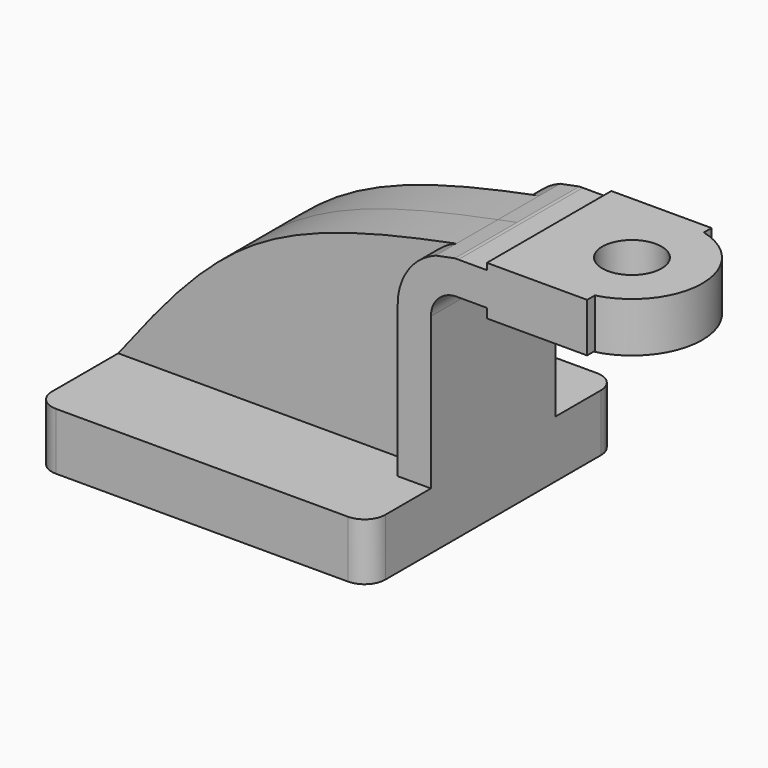
from build123d import *

# Parameters (mm, degrees)
F1_DEPTH = 38.1
F2_DEPTH = 19.05
F3_DEPTH = 12.7
F5_DEPTH = 12.192
F6_R     = 5.08
F7_R     = 7.266587331
F8_DEPTH = 67.1105764264


with BuildPart() as f1:
    # F0 (on Front) → F1 (new body, symmetric)
    with BuildSketch(Plane.XZ):
        Polygon((-40.8368967474, -6.9965338334), (40.8368967474, -6.9965338334), (40.8368967474, 6.9965338334), (32.7088981867, 6.9965338334), (-40.8368967474, 6.9965338334), align=None)
    extrude(amount=F1_DEPTH, both=True)

    # F0 (on Front) → F2 (join, symmetric)
    with BuildSketch(Plane.XZ):
        with BuildLine():
            Line((32.7088981867, 6.9965338334), (40.8368967474, 6.9965338334))
            Line((40.8368967474, 6.9965338334), (40.8368967474, 44.1209748387))
            ThreePointArc((40.8368967474, 44.1209748387), (42.7787364938, 48.6655280984), (47.405064106, 50.403572619))
            Line((47.405064106, 50.403572619), (54.5443966985, 50.403572619))
            Line((54.5443966985, 50.403572619), (54.5443966985, 58.5315711796))
            Line((54.5443966985, 58.5315711796), (47.5487387444, 58.5315711796))
            ThreePointArc((47.5487387444, 58.5315711796), (47.1257024985, 58.5377791506), (46.7026662526, 58.5315711796))
            add(Edge.make_bspline(
                [(42.0115930359, 57.6002229992), (43.5737310544, 57.9125891747), (45.1381986535, 58.2220801772), (46.7026662526, 58.5315711796)],
                knots=[0.9578817781, 0.9578817781, 0.9578817781, 0.9578817781, 1, 1, 1, 1], degree=3))
            ThreePointArc((42.0115930359, 57.6002229992), (35.2603461634, 52.3098432347), (32.7088981867, 44.1209748387))
            Line((32.7088981867, 44.1209748387), (32.7088981867, 6.9965338334))
        make_face()
        Polygon((54.5443966985, 58.5315711796), (54.5443966985, 50.403572619), (54.5443966985, 48.1189936399), (79.1036263108, 48.1189936399), (79.1036263108, 60.113042593), (54.5443966985, 60.113042593), align=None)
    extrude(amount=F2_DEPTH, both=True)

    # F0 (on Front) → F3 (join, symmetric)
    with BuildSketch(Plane.XZ):
        with BuildLine():
            add(Edge.make_bspline(
                [(-40.8368967474, 6.9965338334), (-30.668528225, 20.158177618), (-10.5181051355, 46.2403057616), (24.4122257068, 54.0810415955), (42.0115930359, 57.6002229992)],
                knots=[0, 0, 0, 0, 0.4833692512, 0.9578817781, 0.9578817781, 0.9578817781, 0.9578817781], degree=3))
            Line((-40.8368967474, 6.9965338334), (32.7088981867, 6.9965338334))
            Line((32.7088981867, 6.9965338334), (32.7088981867, 44.1209748387))
            ThreePointArc((32.7088981867, 44.1209748387), (35.2603461634, 52.3098432347), (42.0115930359, 57.6002229992))
        make_face()
    extrude(amount=F3_DEPTH, both=True)

    # F4 (on face) → F5 (join)
    with BuildSketch(Plane.XY.offset(60.113042593)):
        with BuildLine():
            Line((79.1036263108, -16.6910297118), (79.1036263108, 16.6910297118))
            ThreePointArc((79.1036263108, 16.6910297118), (57.6104526514, 0), (79.1036263108, -16.6910297118))
        make_face()
        with BuildLine():
            ThreePointArc((79.1036263108, -16.6910297118), (88.4444418904, -10.5664449916), (92.0654381519, 0))
            ThreePointArc((92.0654381519, 0), (88.4444418904, 10.5664449916), (79.1036263108, 16.6910297118))
            Line((79.1036263108, 16.6910297118), (79.1036263108, -16.6910297118))
        make_face()
    extrude(amount=-F5_DEPTH)

    # F6
    f6_edges = [f1.edges().sort_by_distance(p)[0] for p in [
        (-40.836897, -38.1, 0),
        (40.836897, -38.1, 0),
        (40.836897, 38.1, 0),
        (-40.836897, 38.1, 0),
    ]]
    fillet(f6_edges, radius=F6_R)

    # F7 (on face) → F8 (cut, through all)
    with BuildSketch(Plane.XY.offset(60.113042593)):
        with Locations((74.8379454017, 0)):
            Circle(F7_R)
    extrude(amount=-F8_DEPTH, mode=Mode.SUBTRACT)


solid = f1.part
